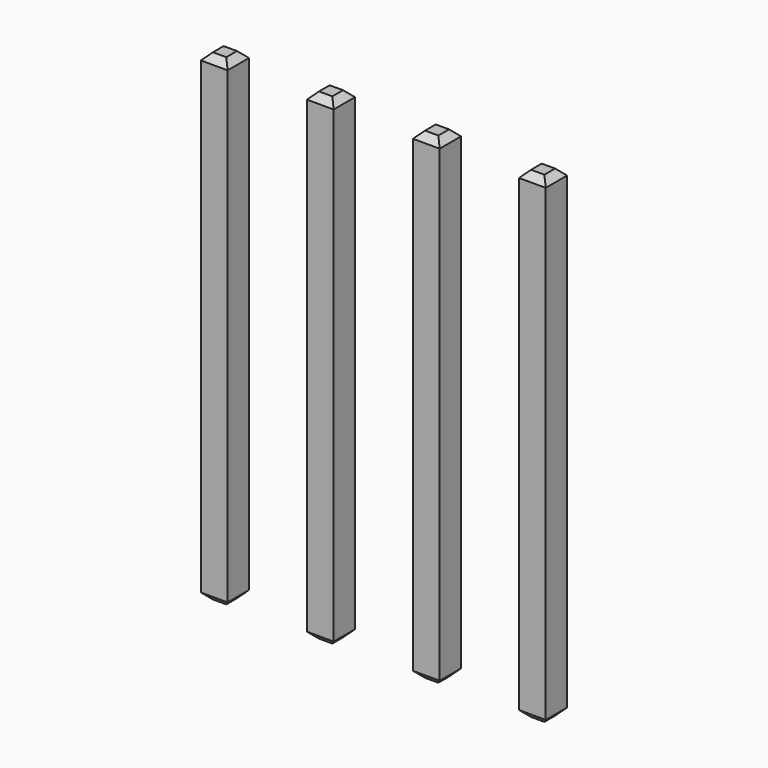
from build123d import *

# Parameters (mm, degrees)
SKETCH212_W       = 0.64
SKETCH212_H       = 11.54
PAD067_DEPTH      = 0.32
PAD067_DEPTH_BACK = 0.32
CHAMFER020_SIZE   = 0.16
ARRAY002_X_COUNT  = 4
ARRAY002_X_PITCH  = 2.54


with BuildPart() as part:
    # Sketch212 → Pad067 (new body, two sides)
    with BuildSketch(Plane.XZ) as pad067_sk:
        with Locations((0, 2.77)):
            Rectangle(SKETCH212_W, SKETCH212_H)
    extrude(amount=PAD067_DEPTH)
    extrude(pad067_sk.sketch, amount=-PAD067_DEPTH_BACK)

    # Chamfer020
    chamfer020_edges = [part.edges().sort_by_distance(p)[0] for p in [
        (0.32, 0, 8.54),
        (-0.32, 0, 8.54),
        (0, 0.32, 8.54),
        (0, -0.32, 8.54),
        (-0.32, 0, -3),
        (0.32, 0, -3),
        (0, 0.32, -3),
        (0, -0.32, -3),
    ]]
    chamfer(chamfer020_edges, length=CHAMFER020_SIZE)

    # Array002 X: part ×4


with BuildPart() as part_1:
    add(part.part)
    with Locations(*[(i * ARRAY002_X_PITCH, 0, 0) for i in range(1, ARRAY002_X_COUNT)]):
        add(part.part)


solid = part_1.part
